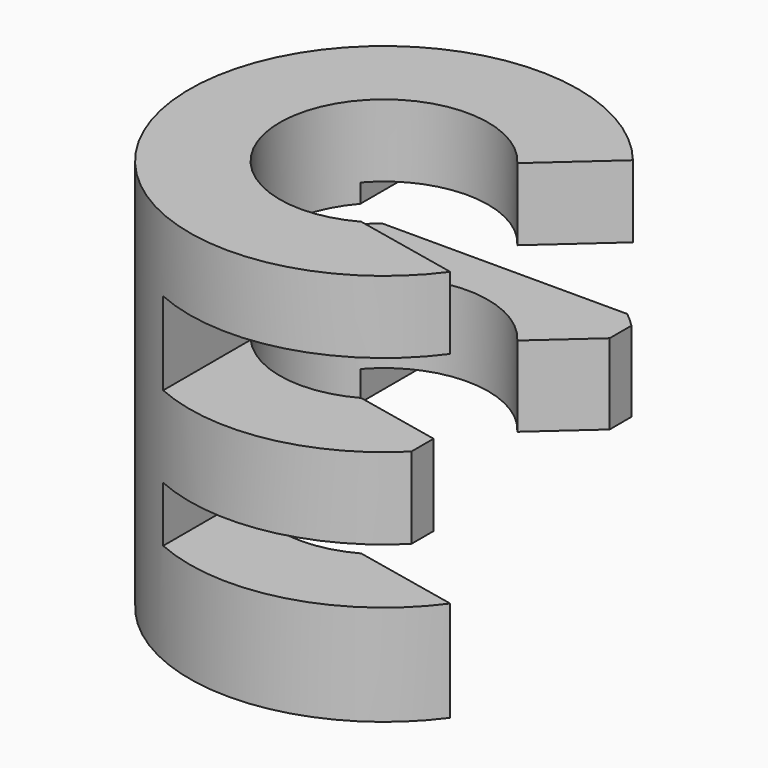
from build123d import *

# Parameters (mm, degrees)
F3_DEPTH = 50
F4_DEPTH = 50
F5_DEPTH = 50


with BuildPart() as f3:
    # F0 (on Top) → F3 (new body, symmetric)
    with BuildSketch(Plane.XY):
        with BuildLine():
            Line((21.297112, 15.841494), (38.456534, 31.189908))
            ThreePointArc((38.456534, 31.189908), (-49.496281, -1.35408), (40.104275, -29.040704))
            Line((40.104275, -29.040704), (12.797512, -23.253894))
            ThreePointArc((12.797512, -23.253894), (-25.936908, 5.638858), (21.297112, 15.841494))
        make_face()
    extrude(amount=F3_DEPTH, both=True)

    # F1 (on Front) → F4 (intersect, symmetric)
    with BuildSketch(Plane.XZ):
        Polygon((-20, 50), (-50, 50), (-50, -50), (-20, -50), (50, -50), (50, -24.378916), (-20, -24.378916), (-20, -10.240086), (35, -10.240086), (35, 10.474946), (-20, 10.474946), (-20, 31.586639), (50, 31.586639), (50, 50), align=None)
    extrude(amount=F4_DEPTH, both=True, mode=Mode.INTERSECT)

    # F2 (on Right) → F5 (intersect, symmetric)
    with BuildSketch(Plane.YZ):
        Polygon((49.905006, 26.793262), (49.905006, 50.518591), (-49.905006, 50.518591), (-49.905006, 26.793262), (-49.905006, -50.518591), (-17.180409, -50.518591), (-17.180409, -17.793998), (38.448131, -17.793998), (38.448131, 0), (38.448131, 10.222353), (-17.180409, 10.222353), (-17.180409, 26.793262), align=None)
    extrude(amount=F5_DEPTH, both=True, mode=Mode.INTERSECT)


solid = f3.part
